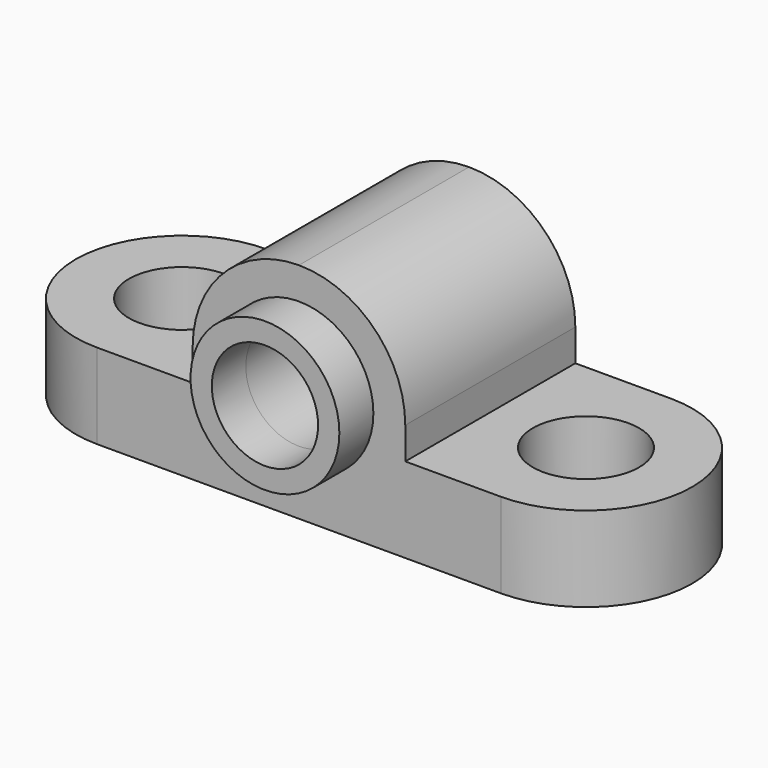
from build123d import *

# Parameters (mm, degrees)
F0_R     = 5
F1_DEPTH = 8
F3_DEPTH = 20
F4_R     = 7
F4_R_2   = 5
F5_DEPTH = 4
F6_DEPTH = 20.001


with BuildPart() as f1:
    # F0 (on Top) → F1 (new body)
    with BuildSketch(Plane.XY):
        with BuildLine():
            ThreePointArc((-19, 10), (-29, 0), (-19, -10))
            Line((-19, -10), (19, -10))
            ThreePointArc((19, -10), (29, 0), (19, 10))
            Line((19, 10), (-19, 10))
        make_face()
        with Locations((-19, 0)):
            Circle(F0_R, mode=Mode.SUBTRACT)
        with Locations((19, 0)):
            Circle(F0_R, mode=Mode.SUBTRACT)
    extrude(amount=F1_DEPTH)

    # F2 (on face) → F3 (join, through all)
    with BuildSketch(Plane.XZ.offset(10)):
        with BuildLine():
            Line((-10, 11), (-10, 8))
            Line((-10, 8), (0, 8))
            Line((0, 8), (10, 8))
            Line((10, 8), (10, 11))
            ThreePointArc((10, 11), (7.071068, 18.071068), (0, 21))
            ThreePointArc((0, 21), (-7.071068, 18.071068), (-10, 11))
        make_face()
    extrude(amount=-F3_DEPTH)

    # F4 (on face) → F5 (join)
    with BuildSketch(Plane.XZ.offset(10)):
        with Locations((0, 11)):
            Circle(F4_R)
        with Locations((0, 11)):
            Circle(F4_R_2, mode=Mode.SUBTRACT)
    extrude(amount=F5_DEPTH)

    # F4 (on face) → F6 (cut, through all)
    with BuildSketch(Plane.XZ.offset(10)):
        with Locations((0, 11)):
            Circle(F4_R_2)
    extrude(amount=-F6_DEPTH, mode=Mode.SUBTRACT)


solid = f1.part
